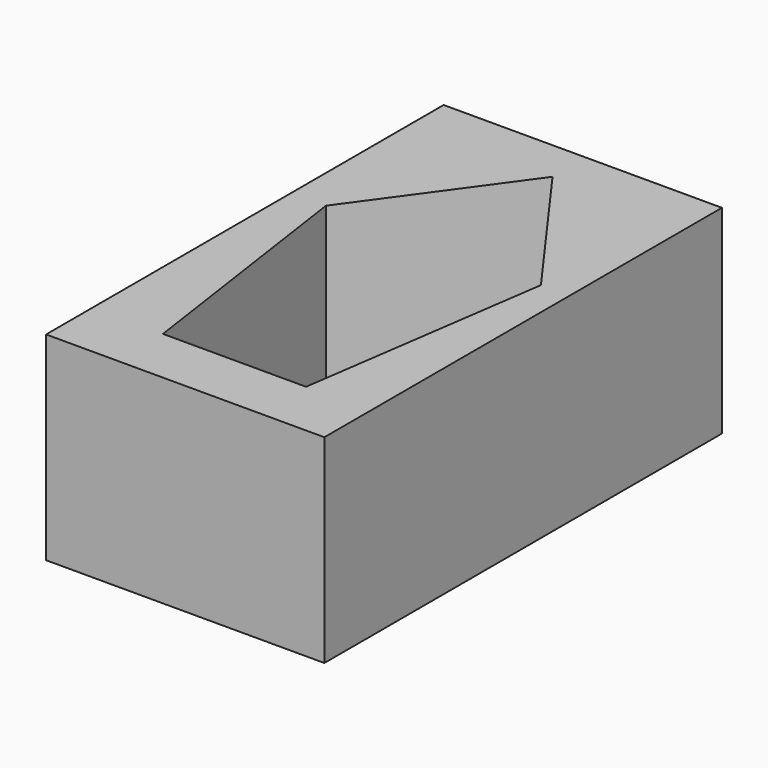
from build123d import *

# Parameters (mm, degrees)
F0_W     = 88.9
F0_H     = 158.75
F1_DEPTH = 63.5
F2_W     = 22.86
F2_H     = 14.4977445151
F2_H_2   = 79.4822554849
F3_DEPTH = 57.15


with BuildPart() as f1:
    # F0 (on Top) → F1 (new body)
    with BuildSketch(Plane.XY):
        with Locations((-17.5175424735, 7.864119485)):
            Rectangle(F0_W, F0_H)
    extrude(amount=F1_DEPTH)

    # F2 (on face) → F3 (cut)
    with BuildSketch(Plane.XY.offset(63.5)):
        Polygon((-16.525246546, 73.9238959342), (-16.525246546, 40.9038959342), (6.334753454, 40.9038959342), (6.334753454, 26.4061514191), (17.7769116252, 26.4061514191), align=None)
        Polygon((-39.385246546, 26.4061514191), (-39.385246546, 40.9038959342), (-16.525246546, 40.9038959342), (-16.525246546, 73.9238959342), (-50.9065217465, 26.4061514191), align=None)
        with Locations((-27.955246546, 33.6550236767)):
            Rectangle(F2_W, F2_H)
        with Locations((-5.095246546, 33.6550236767)):
            Rectangle(F2_W, F2_H)
        with Locations((-5.095246546, -13.3349763233)):
            Rectangle(F2_W, F2_H_2)
        Polygon((17.7769116252, 26.4061514191), (6.334753454, 26.4061514191), (6.334753454, -53.0761040658), align=None)
        with Locations((-27.955246546, -13.3349763233)):
            Rectangle(F2_W, F2_H_2)
        Polygon((-39.385246546, -53.0761040658), (-39.385246546, 26.4061514191), (-50.9065217465, 26.4061514191), align=None)
    extrude(amount=-F3_DEPTH, mode=Mode.SUBTRACT)


solid = f1.part
